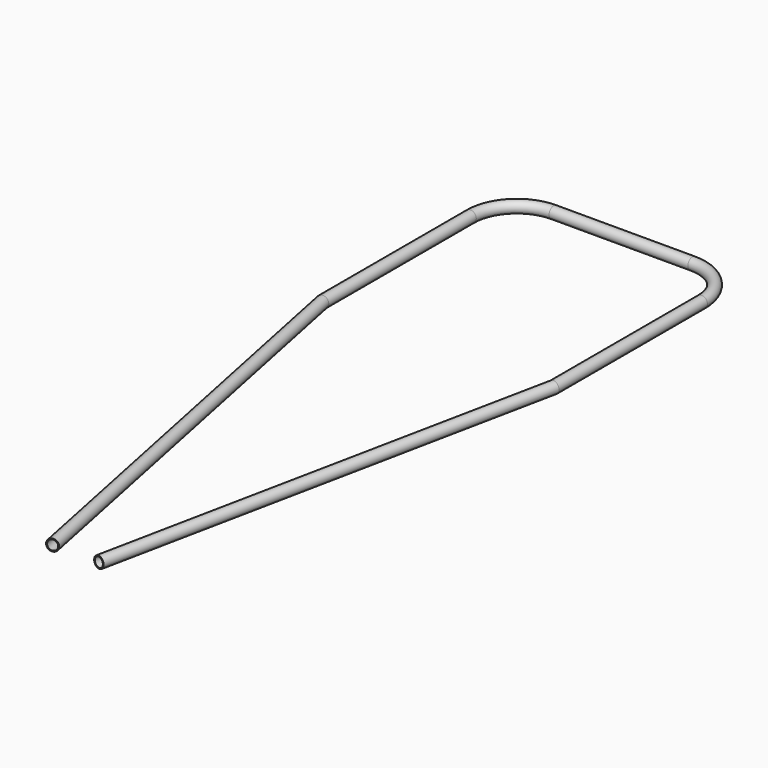
from build123d import *

# Parameters (mm, degrees)
F0_R   = 12.5
F0_R_2 = 10.5


with BuildPart() as f2:
    # F2: sweep along a path in F1
    with BuildLine(Plane.XY) as f2_path:
        Line((-200, -1273.8000652395), (0, -294.0041681262))
        Line((0, -294.0041681262), (0, 0))
        Line((0, 0), (0, 105.9958318738))
        ThreePointArc((0, 105.9958318738), (-29.2893218813, 176.7065099925), (-100, 205.9958318738))
        Line((-100, 205.9958318738), (-400, 205.9958318738))
        ThreePointArc((-400, 205.9958318738), (-470.7106781187, 176.7065099925), (-500, 105.9958318738))
        Line((-500, 105.9958318738), (-500, -294.0041681262))
        Line((-500, -294.0041681262), (-300, -1273.8000652395))
    # F0 (on Front) → F2 (sweep)
    with BuildSketch(Plane.XZ):
        Circle(F0_R)
        Circle(F0_R_2, mode=Mode.SUBTRACT)
    sweep(path=f2_path.line, transition=Transition.RIGHT)


solid = f2.part
